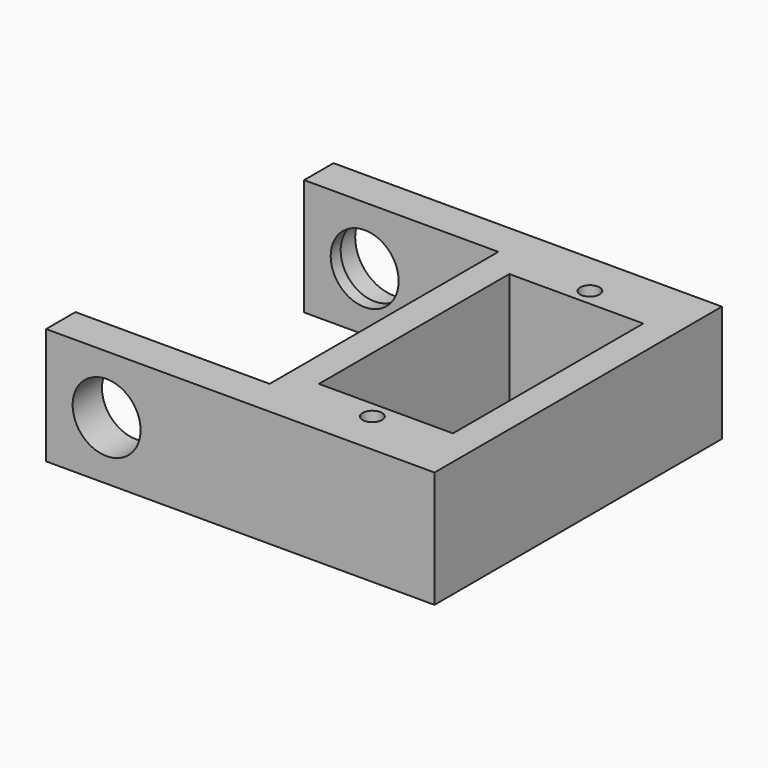
from build123d import *

# Parameters (mm, degrees)
SKETCH_R        = 1
SKETCH_W        = 13.8
SKETCH_H        = 24.5
PAD_DEPTH       = 12
SKETCH001_R     = 3.5
POCKET_DEPTH    = 37.001
POCKET001_DEPTH = 3


with BuildPart() as part:
    # Sketch → Pad (new body)
    with BuildSketch(Plane.XY):
        Polygon((-30, 18.5), (10, 18.5), (10, -18.5), (-30, -18.5), (-30, -14.719735), (-10, -14.719735), (-10, 14.719735), (-30, 14.719735), align=None)
        with Locations((0, -14)):
            Circle(SKETCH_R, mode=Mode.SUBTRACT)
        with Locations((0, 14)):
            Circle(SKETCH_R, mode=Mode.SUBTRACT)
        Rectangle(SKETCH_W, SKETCH_H, mode=Mode.SUBTRACT)
    extrude(amount=PAD_DEPTH)

    # Sketch001 (on Face2 of Pad) → Pocket (cut, through all)
    with BuildSketch(Plane(origin=(0, 18.5, 0), x_dir=(-1, 0, 0), z_dir=(0, 1, 0))):
        with Locations((23.76671, 6)):
            Circle(SKETCH001_R)
    extrude(amount=-POCKET_DEPTH, mode=Mode.SUBTRACT)

    # Sketch002 → Pocket001 (cut)
    with BuildSketch(Plane.XZ.offset(-19)):
        with BuildLine():
            Line((-23.237058, 9.964646), (-8.500146, 7.979621))
            ThreePointArc((-8.505437, 4.019625), (-6.784928, 5.997328), (-8.500146, 7.979621))
            Line((-23.242355, 2.034648), (-8.505437, 4.019625))
            ThreePointArc((-23.237058, 9.964646), (-27.767697, 6.002672), (-23.242355, 2.034648))
        make_face()
    extrude(amount=POCKET001_DEPTH, mode=Mode.SUBTRACT)


solid = part.part
